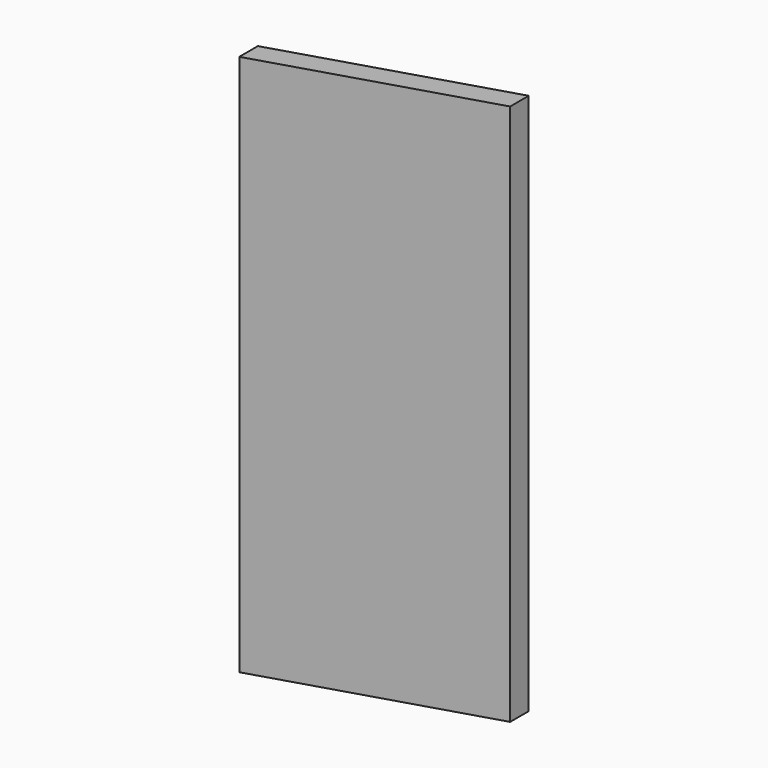
from build123d import *

# Parameters (mm, degrees)
F1_DEPTH = 3
F2_ANGLE = 90


with BuildPart() as f1:
    # F0 (on Front) → F1 (new body)
    with BuildSketch(Plane.XZ):
        Polygon((-35, 0), (0, 0), (35, 0), (29.27, 35), (-35, 35), (-40.73, 35), align=None)
    extrude(amount=F1_DEPTH)


with BuildPart() as f1_1:
    # F2: moved
    add(f1.part.rotate(Axis((-35, -1.5, 0), (0, 1, 0)), F2_ANGLE))


solid = f1_1.part
